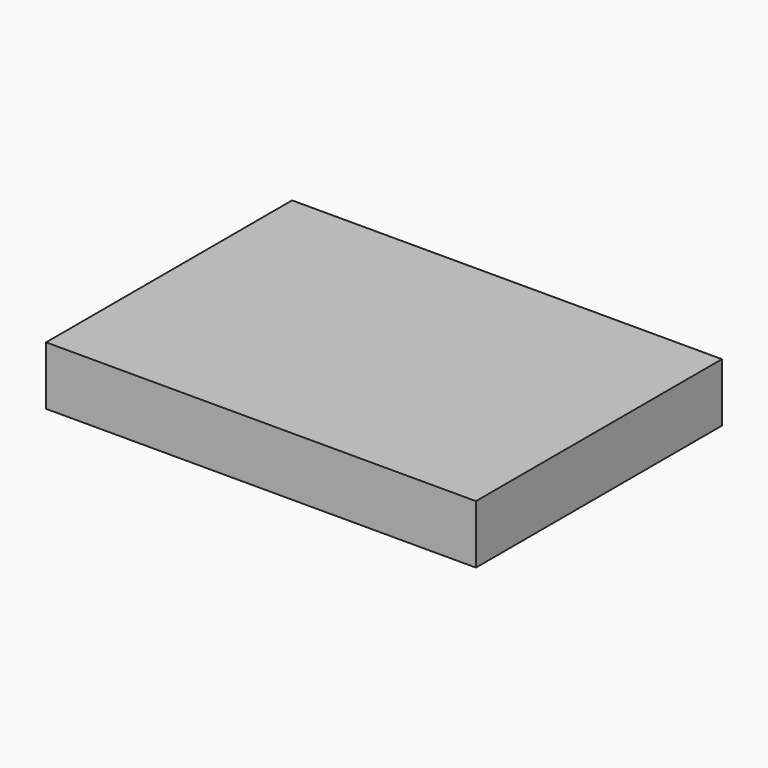
from build123d import *

# Parameters (mm, degrees)
F0_W     = 149.36
F0_H     = 2
F1_DEPTH = 55.4
F2_DEPTH = 52.32


with BuildPart() as f1:
    # F0 (on Front) → F1 (new body, symmetric)
    with BuildSketch(Plane.XZ):
        with Locations((0, -9.55)):
            Rectangle(F0_W, F0_H)
        Polygon((77.45, 10.55), (-77.45, 10.55), (-77.45, -10.55), (-74.68, -10.55), (-74.68, -8.55), (74.68, -8.55), (74.68, -10.55), (77.45, -10.55), align=None)
    extrude(amount=F1_DEPTH, both=True)

    # F0 (on Front) → F2 (join, symmetric)
    with BuildSketch(Plane.XZ):
        with Locations((0, -11.55)):
            Rectangle(F0_W, F0_H)
    extrude(amount=F2_DEPTH, both=True)


solid = f1.part
